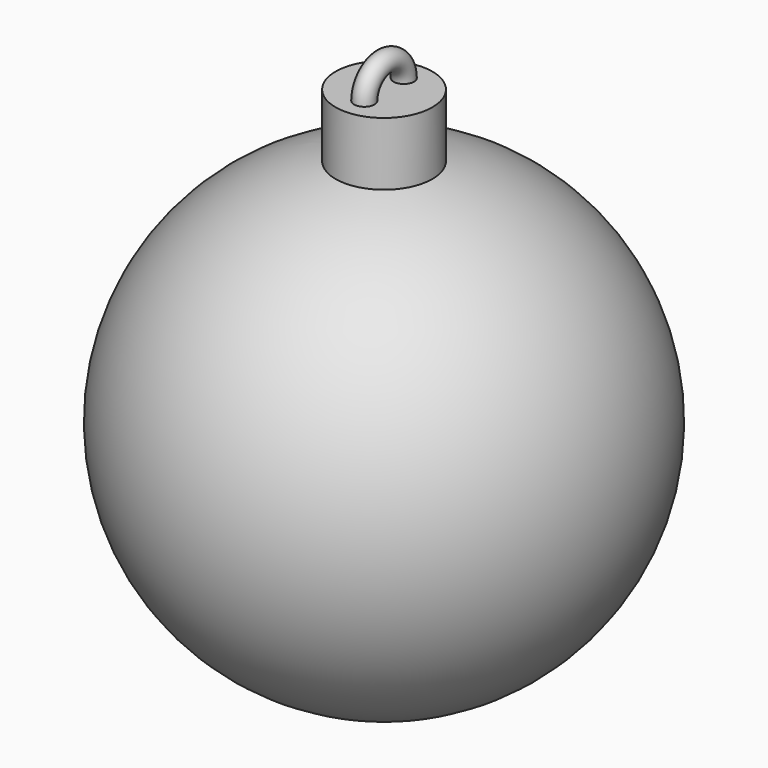
from build123d import *

# Parameters (mm, degrees)
F2_R     = 10.504242
F3_DEPTH = 63.5
F4_R     = 2.216235


with BuildPart() as f1:
    # F0 (on Front) → F1 (revolve)
    with BuildSketch(Plane.XZ):
        with BuildLine():
            Line((0, -50.88574), (0, 50.88574))
            ThreePointArc((0, 50.88574), (-50.88574, 0), (0, -50.88574))
        make_face()
    revolve(axis=Axis((0, 0, 0), (0, 0, -1)))

    # F2 (on Top) → F3 (join)
    with BuildSketch(Plane.XY):
        Circle(F2_R)
    extrude(amount=F3_DEPTH)

    # F4 (on face) → F5 (revolve)
    with BuildSketch(Plane.XY.offset(63.5)):
        with Locations((0, 5.354275)):
            Circle(F4_R)
    revolve(axis=Axis((-0.112007, 0, 63.5), (1, 0, 0)))


solid = f1.part
